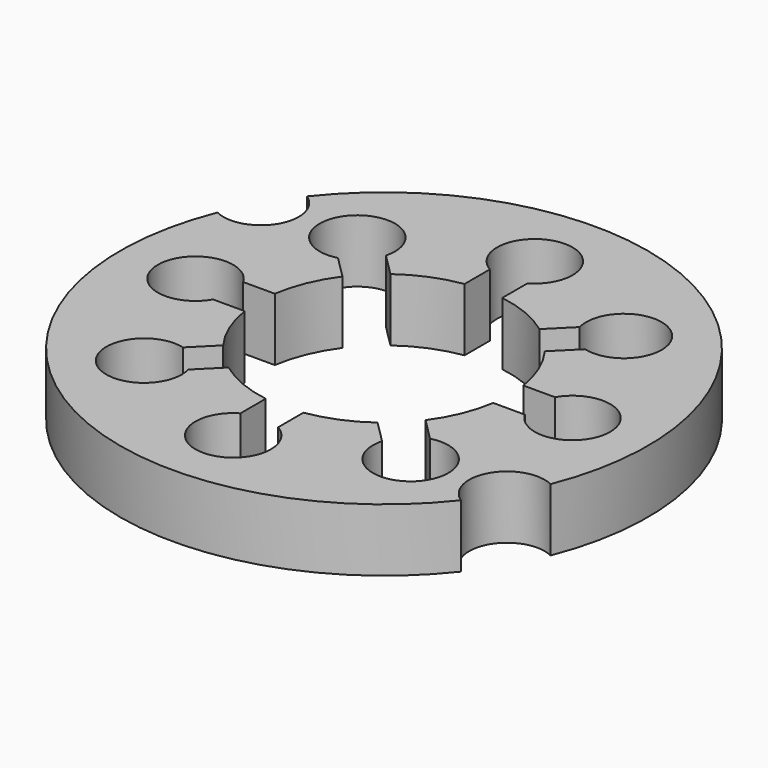
from build123d import *

# Parameters (mm, degrees)
SKETCH_R           = 42
SKETCH_R_2         = 20
PAD_DEPTH          = 10
SKETCH001_R        = 6
POCKET_DEPTH       = 10.001
POCKET001_DEPTH    = 248.429186
POLARPATTERN_COUNT = 8


with BuildPart() as part:
    # Sketch → Pad (new body)
    with BuildSketch(Plane.XY):
        Circle(SKETCH_R)
        Circle(SKETCH_R_2, mode=Mode.SUBTRACT)
    extrude(amount=PAD_DEPTH)

    # Sketch001 (on Face4 of Pad) → Pocket (cut, through all)
    with BuildSketch(Plane.XY.offset(10)):
        with Locations((-36.37, 21)):
            Circle(SKETCH001_R)
        with Locations((36.37, -21)):
            Circle(SKETCH001_R)
    extrude(amount=-POCKET_DEPTH, mode=Mode.SUBTRACT)

    # Sketch002 (on Face4 of Pocket) → Pocket001 (cut, through all)
    with BuildSketch(Plane.XY.offset(10)):
        with BuildLine():
            ThreePointArc((3, 24.803848), (0, 36), (-3, 24.803848))
            Line((-3, 24.803848), (-3, 19.77372))
            ThreePointArc((3, 19.77372), (0, 20), (-3, 19.77372))
            Line((3, 24.803848), (3, 19.77372))
        make_face()
    pocket001 = extrude(amount=-POCKET001_DEPTH, mode=Mode.SUBTRACT)

    # PolarPattern: Pocket001 ×8 about axis
    polarpattern_axis = Axis((0, 0, 10), (0, 0, 1))
    for i in range(1, POLARPATTERN_COUNT):
        add(pocket001.rotate(polarpattern_axis, i * 360 / POLARPATTERN_COUNT), mode=Mode.SUBTRACT)


solid = part.part
